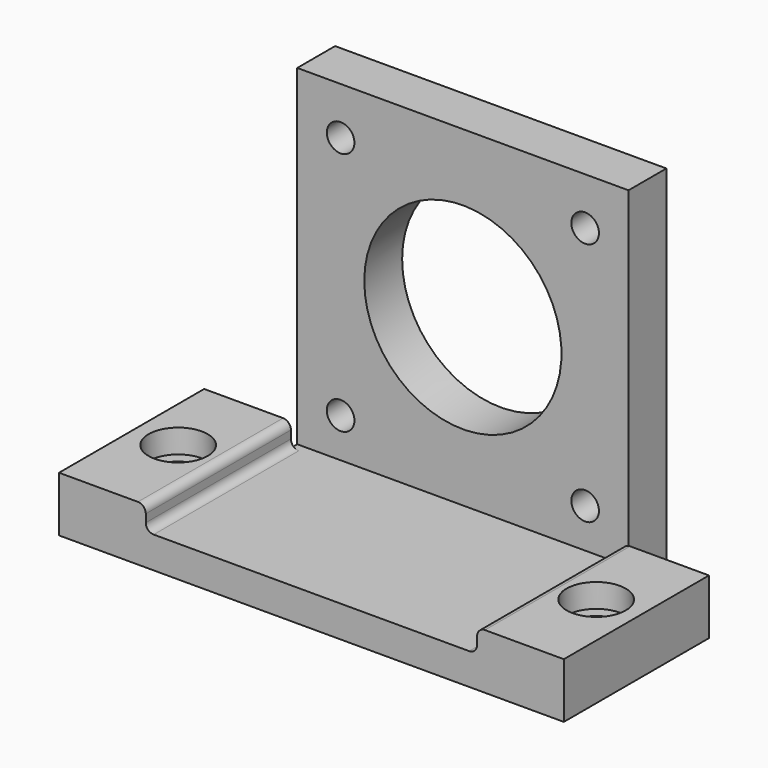
from build123d import *

# Parameters (mm, degrees)
SKETCH_W        = 42
SKETCH_H        = 30
PAD_DEPTH       = 4
SKETCH001_W     = 42
SKETCH001_H     = 6
PAD001_DEPTH    = 42
SKETCH002_R     = 12.5
POCKET_DEPTH    = 6
SKETCH003_R     = 1.75
POCKET001_DEPTH = 6
SKETCH004_W     = 23
SKETCH004_H     = 7
PAD002_DEPTH    = 11
SKETCH005_W     = 23
SKETCH005_H     = 7
PAD003_DEPTH    = 11
SKETCH006_R     = 2.25
POCKET002_DEPTH = 10
SKETCH007_R     = 3.75
POCKET003_DEPTH = 3
FILLET_R        = 1


with BuildPart() as part:
    # Sketch → Pad (new body)
    with BuildSketch(Plane.XY):
        Rectangle(SKETCH_W, SKETCH_H)
    extrude(amount=PAD_DEPTH)

    # Sketch001 (on Face6 of Pad) → Pad001 (join)
    with BuildSketch(Plane.XY.offset(4)):
        with Locations((0, 12)):
            Rectangle(SKETCH001_W, SKETCH001_H)
    extrude(amount=PAD001_DEPTH)

    # Sketch002 (on Face7 of Pad001) → Pocket (cut)
    with BuildSketch(Plane(origin=(0, 15, 0), x_dir=(-1, 0, 0), z_dir=(0, 1, 0))):
        with Locations((0, 25)):
            Circle(SKETCH002_R)
    extrude(amount=-POCKET_DEPTH, mode=Mode.SUBTRACT)

    # Sketch003 (on Face6 of Pocket) → Pocket001 (cut)
    with BuildSketch(Plane.XZ.offset(-9)):
        with Locations((15.5, 9)):
            Circle(SKETCH003_R)
        with Locations((-15.5, 9)):
            Circle(SKETCH003_R)
        with Locations((15.5, 40)):
            Circle(SKETCH003_R)
        with Locations((-15.5, 40)):
            Circle(SKETCH003_R)
    extrude(amount=-POCKET001_DEPTH, mode=Mode.SUBTRACT)

    # Sketch004 (on Face2 of Pocket001) → Pad002 (join)
    with BuildSketch(Plane(origin=(-21, 0, 0), x_dir=(0, -1, 0), z_dir=(-1, 0, 0))):
        with Locations((3.5, 3.5)):
            Rectangle(SKETCH004_W, SKETCH004_H)
    extrude(amount=PAD002_DEPTH)

    # Sketch005 (on Face1 of Pad002) → Pad003 (join)
    with BuildSketch(Plane.YZ.offset(21)):
        with Locations((-3.5, 3.5)):
            Rectangle(SKETCH005_W, SKETCH005_H)
    extrude(amount=PAD003_DEPTH)

    # Sketch006 (on Face19 of Pad003) → Pocket002 (cut)
    with BuildSketch(Plane.XY.offset(7)):
        with Locations((-26.5, -3)):
            Circle(SKETCH006_R)
        with Locations((26.5, -3)):
            Circle(SKETCH006_R)
    extrude(amount=-POCKET002_DEPTH, mode=Mode.SUBTRACT)

    # Sketch007 (on Face23 of Pocket002) → Pocket003 (cut)
    with BuildSketch(Plane.XY.offset(7)):
        with Locations((-26.5, -3)):
            Circle(SKETCH007_R)
        with Locations((26.5, -3)):
            Circle(SKETCH007_R)
    extrude(amount=-POCKET003_DEPTH, mode=Mode.SUBTRACT)

    # Fillet
    fillet_edges = [part.edges().sort_by_distance(p)[0] for p in [
        (-21, -3.5, 7),
        (21, -3.5, 7),
        (21, -3.5, 4),
        (-21, -3.5, 4),
    ]]
    fillet(fillet_edges, radius=FILLET_R)


solid = part.part
